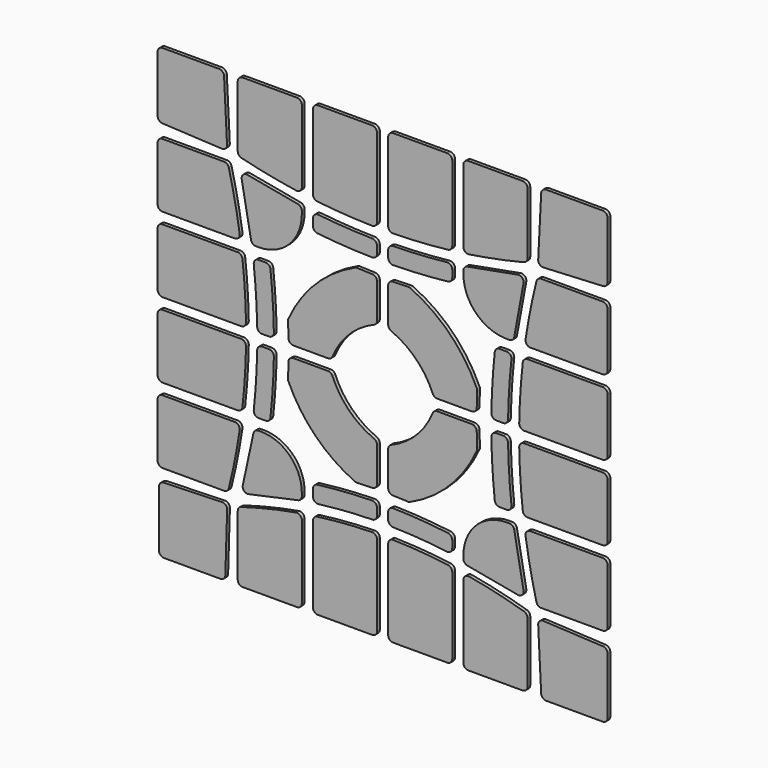
from build123d import *

# Parameters (mm, degrees)
F1_DEPTH = 0.5


with BuildPart() as f1:
    # F0 (on Front) → F1 (new body)
    with BuildSketch(Plane.XZ):
        with BuildLine():
            ThreePointArc((-32.1, -31.4), (-32.046716, -31.667878), (-31.894975, -31.894975))
            Line((-31.894975, -31.894975), (-22.527469, -22.527469))
            ThreePointArc((-22.527469, -22.527469), (-22.764492, -22.371705), (-23.043862, -22.322771))
            Line((-23.043862, -22.322771), (-31.421419, -22.579227))
            ThreePointArc((-31.421419, -22.579227), (-31.90249, -22.791556), (-32.1, -23.278899))
            Line((-32.1, -23.278899), (-32.1, -31.4))
        make_face()
        with BuildLine():
            ThreePointArc((-13.524774, -3.954867), (-11.827949, -6.96332), (-9.616652, -9.616652))
            Line((-9.616652, -9.616652), (-4.808326, -4.808326))
            ThreePointArc((-4.808326, -4.808326), (-6.17845, -3.138231), (-7.195763, -1.232573))
            ThreePointArc((-7.195763, -1.232573), (-7.453563, -0.918107), (-7.842665, -0.8))
            Line((-7.842665, -0.8), (-12.814454, -0.8))
            ThreePointArc((-12.814454, -0.8), (-13.304636, -1.000279), (-13.514324, -1.486511))
            ThreePointArc((-13.514324, -1.486511), (-13.542516, -2.560797), (-13.585671, -3.634586))
            ThreePointArc((-13.585671, -3.634586), (-13.574129, -3.798321), (-13.524774, -3.954867))
        make_face()
        with BuildLine():
            Line((-4.808326, -4.808326), (-9.616652, -9.616652))
            ThreePointArc((-9.616652, -9.616652), (-6.96332, -11.827949), (-3.954867, -13.524774))
            ThreePointArc((-3.954867, -13.524774), (-3.798321, -13.574129), (-3.634586, -13.585671))
            ThreePointArc((-3.634586, -13.585671), (-2.560797, -13.542516), (-1.486511, -13.514324))
            ThreePointArc((-1.486511, -13.514324), (-1.000279, -13.304636), (-0.8, -12.814454))
            Line((-0.8, -12.814454), (-0.8, -7.842665))
            ThreePointArc((-0.8, -7.842665), (-0.918107, -7.453563), (-1.232573, -7.195763))
            ThreePointArc((-1.232573, -7.195763), (-3.138231, -6.17845), (-4.808326, -4.808326))
        make_face()
        with BuildLine():
            ThreePointArc((-20.077405, -19.245374), (-20.064693, -19.590883), (-19.888164, -19.888164))
            Line((-19.888164, -19.888164), (-13.306316, -13.306316))
            ThreePointArc((-13.306316, -13.306316), (-15.196318, -12.043457), (-17.425727, -11.6))
            Line((-17.425727, -11.6), (-17.860803, -11.6))
            ThreePointArc((-17.860803, -11.6), (-18.300422, -11.755266), (-18.545019, -12.152185))
            Line((-18.545019, -12.152185), (-20.077405, -19.245374))
        make_face()
        with BuildLine():
            Line((-13.306316, -13.306316), (-19.888164, -19.888164))
            ThreePointArc((-19.888164, -19.888164), (-19.590883, -20.064693), (-19.245374, -20.077405))
            Line((-19.245374, -20.077405), (-12.152185, -18.545019))
            ThreePointArc((-12.152185, -18.545019), (-11.755266, -18.300422), (-11.6, -17.860803))
            Line((-11.6, -17.860803), (-11.6, -17.425727))
            ThreePointArc((-11.6, -17.425727), (-12.043457, -15.196318), (-13.306316, -13.306316))
        make_face()
        with BuildLine():
            Line((-22.527469, -22.527469), (-31.894975, -31.894975))
            ThreePointArc((-31.894975, -31.894975), (-31.667878, -32.046716), (-31.4, -32.1))
            Line((-31.4, -32.1), (-23.278899, -32.1))
            ThreePointArc((-23.278899, -32.1), (-22.791556, -31.90249), (-22.579227, -31.421419))
            Line((-22.579227, -31.421419), (-22.322771, -23.043862))
            ThreePointArc((-22.322771, -23.043862), (-22.371705, -22.764492), (-22.527469, -22.527469))
        make_face()
        with BuildLine():
            ThreePointArc((-20.298614, -22.040122), (-20.660816, -22.292445), (-20.8, -22.711354))
            Line((-20.8, -22.711354), (-20.8, -31.4))
            ThreePointArc((-20.8, -31.4), (-20.594975, -31.894975), (-20.1, -32.1))
            Line((-20.1, -32.1), (-12.3, -32.1))
            ThreePointArc((-12.3, -32.1), (-11.805025, -31.894975), (-11.6, -31.4))
            Line((-11.6, -31.4), (-11.6, -20.875987))
            ThreePointArc((-11.6, -20.875987), (-11.850043, -20.33976), (-12.42154, -20.186619))
            ThreePointArc((-12.42154, -20.186619), (-16.386305, -21.001906), (-20.298614, -22.040122))
        make_face()
        with BuildLine():
            ThreePointArc((-9.391896, -19.719164), (-9.826463, -19.951764), (-10, -20.413105))
            Line((-10, -20.413105), (-10, -31.4))
            ThreePointArc((-10, -31.4), (-9.794975, -31.894975), (-9.3, -32.1))
            Line((-9.3, -32.1), (-1.5, -32.1))
            ThreePointArc((-1.5, -32.1), (-1.005025, -31.894975), (-0.8, -31.4))
            Line((-0.8, -31.4), (-0.8, -19.815882))
            ThreePointArc((-0.8, -19.815882), (-1.010294, -19.315695), (-1.514822, -19.116039))
            ThreePointArc((-1.514822, -19.116039), (-5.461691, -19.308787), (-9.391896, -19.719164))
        make_face()
        with BuildLine():
            Line((-10, -16.380074), (-10, -17.387992))
            ThreePointArc((-10, -17.387992), (-9.762756, -17.913213), (-9.211837, -18.082418))
            ThreePointArc((-9.211837, -18.082418), (-5.356325, -17.696393), (-1.48578, -17.515093))
            ThreePointArc((-1.48578, -17.515093), (-1.000023, -17.305159), (-0.8, -16.815237))
            Line((-0.8, -16.815237), (-0.8, -15.815033))
            ThreePointArc((-0.8, -15.815033), (-1.010011, -15.315123), (-1.51403, -15.115174))
            ThreePointArc((-1.51403, -15.115174), (-5.457962, -15.297432), (-9.386985, -15.685499))
            ThreePointArc((-9.386985, -15.685499), (-9.824828, -15.916872), (-10, -16.380074))
        make_face()
        with BuildLine():
            Line((0.8, -19.815882), (0.8, -31.4))
            ThreePointArc((0.8, -31.4), (1.005025, -31.894975), (1.5, -32.1))
            Line((1.5, -32.1), (9.3, -32.1))
            ThreePointArc((9.3, -32.1), (9.794975, -31.894975), (10, -31.4))
            Line((10, -31.4), (10, -20.413105))
            ThreePointArc((10, -20.413105), (9.826463, -19.951764), (9.391896, -19.719164))
            ThreePointArc((9.391896, -19.719164), (5.461691, -19.308787), (1.514822, -19.116039))
            ThreePointArc((1.514822, -19.116039), (1.010294, -19.315695), (0.8, -19.815882))
        make_face()
        with BuildLine():
            ThreePointArc((12.42154, -20.186619), (11.850043, -20.33976), (11.6, -20.875987))
            Line((11.6, -20.875987), (11.6, -31.4))
            ThreePointArc((11.6, -31.4), (11.805025, -31.894975), (12.3, -32.1))
            Line((12.3, -32.1), (20.1, -32.1))
            ThreePointArc((20.1, -32.1), (20.594975, -31.894975), (20.8, -31.4))
            Line((20.8, -31.4), (20.8, -22.711354))
            ThreePointArc((20.8, -22.711354), (20.660816, -22.292445), (20.298614, -22.040122))
            ThreePointArc((20.298614, -22.040122), (16.386305, -21.001906), (12.42154, -20.186619))
        make_face()
        with BuildLine():
            ThreePointArc((9.386985, -15.685499), (5.457962, -15.297432), (1.51403, -15.115174))
            ThreePointArc((1.51403, -15.115174), (1.010011, -15.315123), (0.8, -15.815033))
            Line((0.8, -15.815033), (0.8, -16.815237))
            ThreePointArc((0.8, -16.815237), (1.000023, -17.305159), (1.48578, -17.515093))
            ThreePointArc((1.48578, -17.515093), (5.356325, -17.696393), (9.211837, -18.082418))
            ThreePointArc((9.211837, -18.082418), (9.762756, -17.913213), (10, -17.387992))
            Line((10, -17.387992), (10, -16.380074))
            ThreePointArc((10, -16.380074), (9.824828, -15.916872), (9.386985, -15.685499))
        make_face()
        with BuildLine():
            Line((23.465874, -32.3), (31.6, -32.3))
            ThreePointArc((31.6, -32.3), (32.094975, -32.094975), (32.3, -31.6))
            Line((32.3, -31.6), (32.3, -23.465874))
            ThreePointArc((32.3, -23.465874), (32.107183, -22.983417), (31.634956, -22.766748))
            Line((31.634956, -22.766748), (23.072719, -22.338636))
            ThreePointArc((23.072719, -22.338636), (22.542788, -22.542788), (22.338636, -23.072719))
            Line((22.338636, -23.072719), (22.766748, -31.634956))
            ThreePointArc((22.766748, -31.634956), (22.983417, -32.107183), (23.465874, -32.3))
        make_face()
        with BuildLine():
            ThreePointArc((22.084735, -20.269082), (22.332938, -20.651524), (22.764008, -20.8))
            Line((22.764008, -20.8), (31.6, -20.8))
            ThreePointArc((31.6, -20.8), (32.094975, -20.594975), (32.3, -20.1))
            Line((32.3, -20.1), (32.3, -12.3))
            ThreePointArc((32.3, -12.3), (32.094975, -11.805025), (31.6, -11.6))
            Line((31.6, -11.6), (21.214059, -11.6))
            ThreePointArc((21.214059, -11.6), (20.683763, -11.843069), (20.521748, -12.403468))
            ThreePointArc((20.521748, -12.403468), (21.209227, -16.354957), (22.084735, -20.269082))
        make_face()
        with BuildLine():
            Line((20.821315, -10), (31.6, -10))
            ThreePointArc((31.6, -10), (32.094975, -9.794975), (32.3, -9.3))
            Line((32.3, -9.3), (32.3, -1.5))
            ThreePointArc((32.3, -1.5), (32.094975, -1.005025), (31.6, -0.8))
            Line((31.6, -0.8), (20.31352, -0.8))
            ThreePointArc((20.31352, -0.8), (19.814104, -1.009507), (19.613634, -1.512618))
            ThreePointArc((19.613634, -1.512618), (19.777262, -5.451441), (20.125701, -9.378232))
            ThreePointArc((20.125701, -9.378232), (20.354819, -9.821901), (20.821315, -10))
        make_face()
        with BuildLine():
            ThreePointArc((31.6, 0.8), (32.094975, 1.005025), (32.3, 1.5))
            Line((32.3, 1.5), (32.3, 9.3))
            ThreePointArc((32.3, 9.3), (32.094975, 9.794975), (31.6, 10))
            Line((31.6, 10), (20.821315, 10))
            ThreePointArc((20.821315, 10), (20.354819, 9.821901), (20.125701, 9.378232))
            ThreePointArc((20.125701, 9.378232), (19.777262, 5.451441), (19.613634, 1.512618))
            ThreePointArc((19.613634, 1.512618), (19.814104, 1.009507), (20.31352, 0.8))
            Line((20.31352, 0.8), (31.6, 0.8))
        make_face()
        with BuildLine():
            ThreePointArc((31.6, 11.6), (32.094975, 11.805025), (32.3, 12.3))
            Line((32.3, 12.3), (32.3, 20.1))
            ThreePointArc((32.3, 20.1), (32.094975, 20.594975), (31.6, 20.8))
            Line((31.6, 20.8), (22.764008, 20.8))
            ThreePointArc((22.764008, 20.8), (22.332938, 20.651524), (22.084735, 20.269082))
            ThreePointArc((22.084735, 20.269082), (21.209227, 16.354957), (20.521748, 12.403468))
            ThreePointArc((20.521748, 12.403468), (20.683763, 11.843069), (21.214059, 11.6))
            Line((21.214059, 11.6), (31.6, 11.6))
        make_face()
        with BuildLine():
            ThreePointArc((18.498982, 9.22449), (18.324055, 9.767516), (17.803067, 10))
            Line((17.803067, 10), (16.797265, 10))
            ThreePointArc((16.797265, 10), (16.329425, 9.820697), (16.101256, 9.374644))
            ThreePointArc((16.101256, 9.374644), (15.769018, 5.448813), (15.613004, 1.512039))
            ThreePointArc((15.613004, 1.512039), (15.813687, 1.0093), (16.3129, 0.8))
            Line((16.3129, 0.8), (17.31305, 0.8))
            ThreePointArc((17.31305, 0.8), (17.8037, 1.000738), (18.012944, 1.487821))
            ThreePointArc((18.012944, 1.487821), (18.168251, 5.361666), (18.498982, 9.22449))
        make_face()
        with BuildLine():
            Line((17.31305, -0.8), (16.3129, -0.8))
            ThreePointArc((16.3129, -0.8), (15.813687, -1.0093), (15.613004, -1.512039))
            ThreePointArc((15.613004, -1.512039), (15.769018, -5.448813), (16.101256, -9.374644))
            ThreePointArc((16.101256, -9.374644), (16.329425, -9.820697), (16.797265, -10))
            Line((16.797265, -10), (17.803067, -10))
            ThreePointArc((17.803067, -10), (18.324055, -9.767516), (18.498982, -9.22449))
            ThreePointArc((18.498982, -9.22449), (18.168251, -5.361666), (18.012944, -1.487821))
            ThreePointArc((18.012944, -1.487821), (17.8037, -1.000738), (17.31305, -0.8))
        make_face()
        with BuildLine():
            Line((18.207832, -11.6), (17.790422, -11.6))
            ThreePointArc((17.790422, -11.6), (13.413133, -13.413133), (11.6, -17.790422))
            Line((11.6, -17.790422), (11.6, -18.207832))
            ThreePointArc((11.6, -18.207832), (11.761964, -18.655624), (12.172908, -18.896198))
            Line((12.172908, -18.896198), (19.418485, -20.233943))
            ThreePointArc((19.418485, -20.233943), (20.040552, -20.040552), (20.233943, -19.418485))
            Line((20.233943, -19.418485), (18.896198, -12.172908))
            ThreePointArc((18.896198, -12.172908), (18.655624, -11.761964), (18.207832, -11.6))
        make_face()
        with BuildLine():
            Line((32.3, 23.465874), (32.3, 31.6))
            ThreePointArc((32.3, 31.6), (32.094975, 32.094975), (31.6, 32.3))
            Line((31.6, 32.3), (23.465874, 32.3))
            ThreePointArc((23.465874, 32.3), (22.983417, 32.107183), (22.766748, 31.634956))
            Line((22.766748, 31.634956), (22.338636, 23.072719))
            ThreePointArc((22.338636, 23.072719), (22.542788, 22.542788), (23.072719, 22.338636))
            Line((23.072719, 22.338636), (31.634956, 22.766748))
            ThreePointArc((31.634956, 22.766748), (32.107183, 22.983417), (32.3, 23.465874))
        make_face()
        with BuildLine():
            ThreePointArc((20.269082, 22.084735), (20.651524, 22.332938), (20.8, 22.764008))
            Line((20.8, 22.764008), (20.8, 31.6))
            ThreePointArc((20.8, 31.6), (20.594975, 32.094975), (20.1, 32.3))
            Line((20.1, 32.3), (12.3, 32.3))
            ThreePointArc((12.3, 32.3), (11.805025, 32.094975), (11.6, 31.6))
            Line((11.6, 31.6), (11.6, 21.214059))
            ThreePointArc((11.6, 21.214059), (11.843069, 20.683763), (12.403468, 20.521748))
            ThreePointArc((12.403468, 20.521748), (16.354957, 21.209227), (20.269082, 22.084735))
        make_face()
        with BuildLine():
            Line((10, 20.821315), (10, 31.6))
            ThreePointArc((10, 31.6), (9.794975, 32.094975), (9.3, 32.3))
            Line((9.3, 32.3), (1.5, 32.3))
            ThreePointArc((1.5, 32.3), (1.005025, 32.094975), (0.8, 31.6))
            Line((0.8, 31.6), (0.8, 20.31352))
            ThreePointArc((0.8, 20.31352), (1.009507, 19.814104), (1.512618, 19.613634))
            ThreePointArc((1.512618, 19.613634), (5.451441, 19.777262), (9.378232, 20.125701))
            ThreePointArc((9.378232, 20.125701), (9.821901, 20.354819), (10, 20.821315))
        make_face()
        with BuildLine():
            ThreePointArc((-0.8, 31.6), (-1.005025, 32.094975), (-1.5, 32.3))
            Line((-1.5, 32.3), (-9.3, 32.3))
            ThreePointArc((-9.3, 32.3), (-9.794975, 32.094975), (-10, 31.6))
            Line((-10, 31.6), (-10, 20.821315))
            ThreePointArc((-10, 20.821315), (-9.821901, 20.354819), (-9.378232, 20.125701))
            ThreePointArc((-9.378232, 20.125701), (-5.451441, 19.777262), (-1.512618, 19.613634))
            ThreePointArc((-1.512618, 19.613634), (-1.009507, 19.814104), (-0.8, 20.31352))
            Line((-0.8, 20.31352), (-0.8, 31.6))
        make_face()
        with BuildLine():
            ThreePointArc((-11.6, 31.6), (-11.805025, 32.094975), (-12.3, 32.3))
            Line((-12.3, 32.3), (-20.1, 32.3))
            ThreePointArc((-20.1, 32.3), (-20.594975, 32.094975), (-20.8, 31.6))
            Line((-20.8, 31.6), (-20.8, 22.764008))
            ThreePointArc((-20.8, 22.764008), (-20.651524, 22.332938), (-20.269082, 22.084735))
            ThreePointArc((-20.269082, 22.084735), (-16.354957, 21.209227), (-12.403468, 20.521748))
            ThreePointArc((-12.403468, 20.521748), (-11.843069, 20.683763), (-11.6, 21.214059))
            Line((-11.6, 21.214059), (-11.6, 31.6))
        make_face()
        with BuildLine():
            ThreePointArc((-9.22449, 18.498982), (-9.767516, 18.324055), (-10, 17.803067))
            Line((-10, 17.803067), (-10, 16.797265))
            ThreePointArc((-10, 16.797265), (-9.820697, 16.329425), (-9.374644, 16.101256))
            ThreePointArc((-9.374644, 16.101256), (-5.448813, 15.769018), (-1.512039, 15.613004))
            ThreePointArc((-1.512039, 15.613004), (-1.0093, 15.813687), (-0.8, 16.3129))
            Line((-0.8, 16.3129), (-0.8, 17.31305))
            ThreePointArc((-0.8, 17.31305), (-1.000738, 17.8037), (-1.487821, 18.012944))
            ThreePointArc((-1.487821, 18.012944), (-5.361666, 18.168251), (-9.22449, 18.498982))
        make_face()
        with BuildLine():
            Line((0.8, 17.31305), (0.8, 16.3129))
            ThreePointArc((0.8, 16.3129), (1.0093, 15.813687), (1.512039, 15.613004))
            ThreePointArc((1.512039, 15.613004), (5.448813, 15.769018), (9.374644, 16.101256))
            ThreePointArc((9.374644, 16.101256), (9.820697, 16.329425), (10, 16.797265))
            Line((10, 16.797265), (10, 17.803067))
            ThreePointArc((10, 17.803067), (9.767516, 18.324055), (9.22449, 18.498982))
            ThreePointArc((9.22449, 18.498982), (5.361666, 18.168251), (1.487821, 18.012944))
            ThreePointArc((1.487821, 18.012944), (1.000738, 17.8037), (0.8, 17.31305))
        make_face()
        with BuildLine():
            Line((11.6, 18.207832), (11.6, 17.790422))
            ThreePointArc((11.6, 17.790422), (13.413133, 13.413133), (17.790422, 11.6))
            Line((17.790422, 11.6), (18.207832, 11.6))
            ThreePointArc((18.207832, 11.6), (18.655624, 11.761964), (18.896198, 12.172908))
            Line((18.896198, 12.172908), (20.233943, 19.418485))
            ThreePointArc((20.233943, 19.418485), (20.040552, 20.040552), (19.418485, 20.233943))
            Line((19.418485, 20.233943), (12.172908, 18.896198))
            ThreePointArc((12.172908, 18.896198), (11.761964, 18.655624), (11.6, 18.207832))
        make_face()
        with BuildLine():
            Line((-23.465874, 32.3), (-31.6, 32.3))
            ThreePointArc((-31.6, 32.3), (-32.094975, 32.094975), (-32.3, 31.6))
            Line((-32.3, 31.6), (-32.3, 23.465874))
            ThreePointArc((-32.3, 23.465874), (-32.107183, 22.983417), (-31.634956, 22.766748))
            Line((-31.634956, 22.766748), (-23.072719, 22.338636))
            ThreePointArc((-23.072719, 22.338636), (-22.542788, 22.542788), (-22.338636, 23.072719))
            Line((-22.338636, 23.072719), (-22.766748, 31.634956))
            ThreePointArc((-22.766748, 31.634956), (-22.983417, 32.107183), (-23.465874, 32.3))
        make_face()
        with BuildLine():
            ThreePointArc((-22.084735, 20.269082), (-22.332938, 20.651524), (-22.764008, 20.8))
            Line((-22.764008, 20.8), (-31.6, 20.8))
            ThreePointArc((-31.6, 20.8), (-32.094975, 20.594975), (-32.3, 20.1))
            Line((-32.3, 20.1), (-32.3, 12.3))
            ThreePointArc((-32.3, 12.3), (-32.094975, 11.805025), (-31.6, 11.6))
            Line((-31.6, 11.6), (-21.214059, 11.6))
            ThreePointArc((-21.214059, 11.6), (-20.683763, 11.843069), (-20.521748, 12.403468))
            ThreePointArc((-20.521748, 12.403468), (-21.209227, 16.354957), (-22.084735, 20.269082))
        make_face()
        with BuildLine():
            Line((-20.821315, 10), (-31.6, 10))
            ThreePointArc((-31.6, 10), (-32.094975, 9.794975), (-32.3, 9.3))
            Line((-32.3, 9.3), (-32.3, 1.5))
            ThreePointArc((-32.3, 1.5), (-32.094975, 1.005025), (-31.6, 0.8))
            Line((-31.6, 0.8), (-20.31352, 0.8))
            ThreePointArc((-20.31352, 0.8), (-19.814104, 1.009507), (-19.613634, 1.512618))
            ThreePointArc((-19.613634, 1.512618), (-19.777262, 5.451441), (-20.125701, 9.378232))
            ThreePointArc((-20.125701, 9.378232), (-20.354819, 9.821901), (-20.821315, 10))
        make_face()
        with BuildLine():
            ThreePointArc((-31.6, -0.8), (-32.094975, -1.005025), (-32.3, -1.5))
            Line((-32.3, -1.5), (-32.3, -9.3))
            ThreePointArc((-32.3, -9.3), (-32.094975, -9.794975), (-31.6, -10))
            Line((-31.6, -10), (-20.821315, -10))
            ThreePointArc((-20.821315, -10), (-20.354819, -9.821901), (-20.125701, -9.378232))
            ThreePointArc((-20.125701, -9.378232), (-19.777262, -5.451441), (-19.613634, -1.512618))
            ThreePointArc((-19.613634, -1.512618), (-19.814104, -1.009507), (-20.31352, -0.8))
            Line((-20.31352, -0.8), (-31.6, -0.8))
        make_face()
        with BuildLine():
            ThreePointArc((-31.6, -11.6), (-32.094975, -11.805025), (-32.3, -12.3))
            Line((-32.3, -12.3), (-32.3, -20.1))
            ThreePointArc((-32.3, -20.1), (-32.094975, -20.594975), (-31.6, -20.8))
            Line((-31.6, -20.8), (-22.764008, -20.8))
            ThreePointArc((-22.764008, -20.8), (-22.332938, -20.651524), (-22.084735, -20.269082))
            ThreePointArc((-22.084735, -20.269082), (-21.209227, -16.354957), (-20.521748, -12.403468))
            ThreePointArc((-20.521748, -12.403468), (-20.683763, -11.843069), (-21.214059, -11.6))
            Line((-21.214059, -11.6), (-31.6, -11.6))
        make_face()
        with BuildLine():
            ThreePointArc((-18.498982, -9.22449), (-18.324055, -9.767516), (-17.803067, -10))
            Line((-17.803067, -10), (-16.797265, -10))
            ThreePointArc((-16.797265, -10), (-16.329425, -9.820697), (-16.101256, -9.374644))
            ThreePointArc((-16.101256, -9.374644), (-15.769018, -5.448813), (-15.613004, -1.512039))
            ThreePointArc((-15.613004, -1.512039), (-15.813687, -1.0093), (-16.3129, -0.8))
            Line((-16.3129, -0.8), (-17.31305, -0.8))
            ThreePointArc((-17.31305, -0.8), (-17.8037, -1.000738), (-18.012944, -1.487821))
            ThreePointArc((-18.012944, -1.487821), (-18.168251, -5.361666), (-18.498982, -9.22449))
        make_face()
        with BuildLine():
            Line((-17.31305, 0.8), (-16.3129, 0.8))
            ThreePointArc((-16.3129, 0.8), (-15.813687, 1.0093), (-15.613004, 1.512039))
            ThreePointArc((-15.613004, 1.512039), (-15.769018, 5.448813), (-16.101256, 9.374644))
            ThreePointArc((-16.101256, 9.374644), (-16.329425, 9.820697), (-16.797265, 10))
            Line((-16.797265, 10), (-17.803067, 10))
            ThreePointArc((-17.803067, 10), (-18.324055, 9.767516), (-18.498982, 9.22449))
            ThreePointArc((-18.498982, 9.22449), (-18.168251, 5.361666), (-18.012944, 1.487821))
            ThreePointArc((-18.012944, 1.487821), (-17.8037, 1.000738), (-17.31305, 0.8))
        make_face()
        with BuildLine():
            Line((-18.207832, 11.6), (-17.790422, 11.6))
            ThreePointArc((-17.790422, 11.6), (-13.413133, 13.413133), (-11.6, 17.790422))
            Line((-11.6, 17.790422), (-11.6, 18.207832))
            ThreePointArc((-11.6, 18.207832), (-11.761964, 18.655624), (-12.172908, 18.896198))
            Line((-12.172908, 18.896198), (-19.418485, 20.233943))
            ThreePointArc((-19.418485, 20.233943), (-20.040552, 20.040552), (-20.233943, 19.418485))
            Line((-20.233943, 19.418485), (-18.896198, 12.172908))
            ThreePointArc((-18.896198, 12.172908), (-18.655624, 11.761964), (-18.207832, 11.6))
        make_face()
        with BuildLine():
            Line((0.8, -7.842665), (0.8, -12.814454))
            ThreePointArc((0.8, -12.814454), (1.000279, -13.304636), (1.486511, -13.514324))
            ThreePointArc((1.486511, -13.514324), (2.560797, -13.542516), (3.634586, -13.585671))
            ThreePointArc((3.634586, -13.585671), (3.798321, -13.574129), (3.954867, -13.524774))
            ThreePointArc((3.954867, -13.524774), (9.616652, -9.616652), (13.524774, -3.954867))
            ThreePointArc((13.524774, -3.954867), (13.574129, -3.798321), (13.585671, -3.634586))
            ThreePointArc((13.585671, -3.634586), (13.542516, -2.560797), (13.514324, -1.486511))
            ThreePointArc((13.514324, -1.486511), (13.304636, -1.000279), (12.814454, -0.8))
            Line((12.814454, -0.8), (7.842665, -0.8))
            ThreePointArc((7.842665, -0.8), (7.453563, -0.918107), (7.195763, -1.232573))
            ThreePointArc((7.195763, -1.232573), (4.808326, -4.808326), (1.232573, -7.195763))
            ThreePointArc((1.232573, -7.195763), (0.918107, -7.453563), (0.8, -7.842665))
        make_face()
        with BuildLine():
            Line((7.842665, 0.8), (12.814454, 0.8))
            ThreePointArc((12.814454, 0.8), (13.304636, 1.000279), (13.514324, 1.486511))
            ThreePointArc((13.514324, 1.486511), (13.542516, 2.560797), (13.585671, 3.634586))
            ThreePointArc((13.585671, 3.634586), (13.574129, 3.798321), (13.524774, 3.954867))
            ThreePointArc((13.524774, 3.954867), (9.616652, 9.616652), (3.954867, 13.524774))
            ThreePointArc((3.954867, 13.524774), (3.798321, 13.574129), (3.634586, 13.585671))
            ThreePointArc((3.634586, 13.585671), (2.560797, 13.542516), (1.486511, 13.514324))
            ThreePointArc((1.486511, 13.514324), (1.000279, 13.304636), (0.8, 12.814454))
            Line((0.8, 12.814454), (0.8, 7.842665))
            ThreePointArc((0.8, 7.842665), (0.918107, 7.453563), (1.232573, 7.195763))
            ThreePointArc((1.232573, 7.195763), (4.808326, 4.808326), (7.195763, 1.232573))
            ThreePointArc((7.195763, 1.232573), (7.453563, 0.918107), (7.842665, 0.8))
        make_face()
        with BuildLine():
            Line((-0.8, 7.842665), (-0.8, 12.814454))
            ThreePointArc((-0.8, 12.814454), (-1.000279, 13.304636), (-1.486511, 13.514324))
            ThreePointArc((-1.486511, 13.514324), (-2.560797, 13.542516), (-3.634586, 13.585671))
            ThreePointArc((-3.634586, 13.585671), (-3.798321, 13.574129), (-3.954867, 13.524774))
            ThreePointArc((-3.954867, 13.524774), (-9.616652, 9.616652), (-13.524774, 3.954867))
            ThreePointArc((-13.524774, 3.954867), (-13.574129, 3.798321), (-13.585671, 3.634586))
            ThreePointArc((-13.585671, 3.634586), (-13.542516, 2.560797), (-13.514324, 1.486511))
            ThreePointArc((-13.514324, 1.486511), (-13.304636, 1.000279), (-12.814454, 0.8))
            Line((-12.814454, 0.8), (-7.842665, 0.8))
            ThreePointArc((-7.842665, 0.8), (-7.453563, 0.918107), (-7.195763, 1.232573))
            ThreePointArc((-7.195763, 1.232573), (-4.808326, 4.808326), (-1.232573, 7.195763))
            ThreePointArc((-1.232573, 7.195763), (-0.918107, 7.453563), (-0.8, 7.842665))
        make_face()
    extrude(amount=F1_DEPTH)


solid = f1.part
